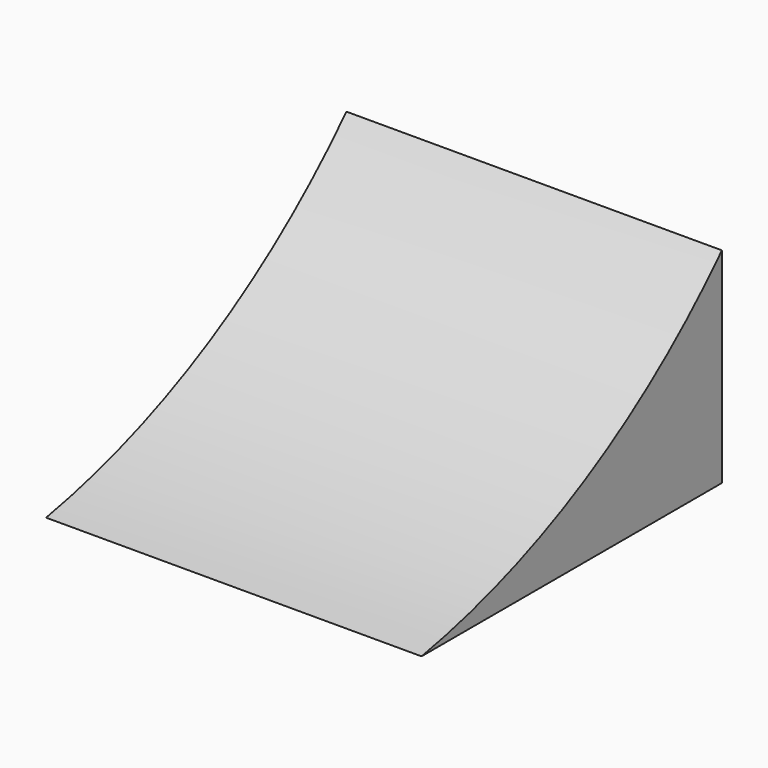
from build123d import *

# Parameters (mm, degrees)
F0_W     = 139.7
F0_H     = 139.7
F1_DEPTH = 76.2
F3_DEPTH = 139.701


with BuildPart() as f1:
    # F0 (on Top) → F1 (new body)
    with BuildSketch(Plane.XY):
        Rectangle(F0_W, F0_H)
    extrude(amount=F1_DEPTH)

    # F2 (on face) → F3 (cut, through all)
    with BuildSketch(Plane.YZ.offset(69.85)):
        with BuildLine():
            Line((-69.85, 76.2), (-69.85, 0))
            ThreePointArc((-69.85, 0), (6.121438, 26.877363), (69.85, 76.2))
            Line((69.85, 76.2), (-69.85, 76.2))
        make_face()
    extrude(amount=-F3_DEPTH, mode=Mode.SUBTRACT)


solid = f1.part
